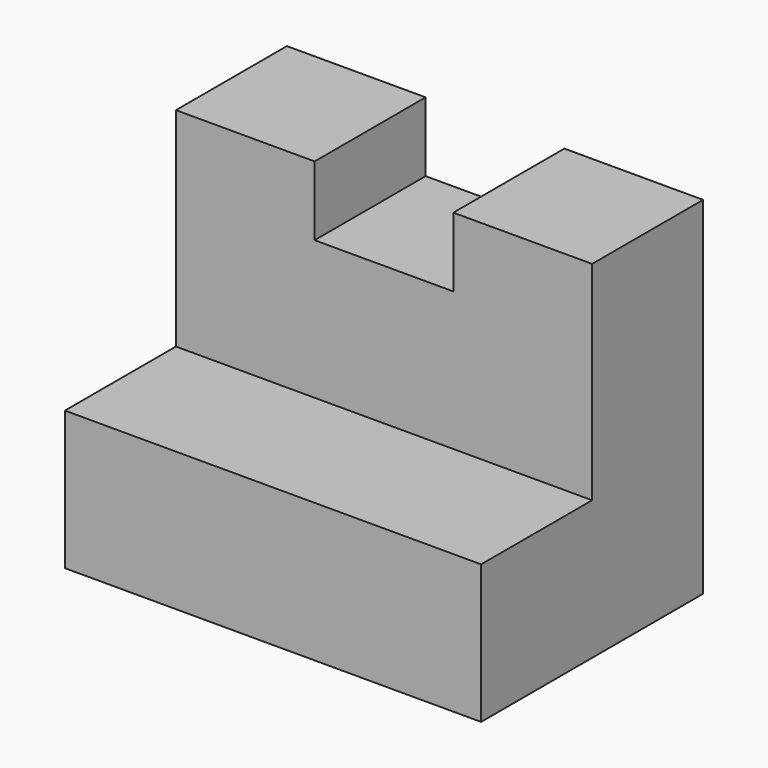
from build123d import *

# Parameters (mm, degrees)
F0_W     = 38.1
F0_H     = 12.7
F1_DEPTH = 25.4
F2_W     = 38.1
F2_H     = 19.05
F3_DEPTH = 12.7
F4_W     = 12.7
F4_H     = 6.35
F5_DEPTH = 25.4


with BuildPart() as f1:
    # F0 (on Front) → F1 (new body)
    with BuildSketch(Plane.XZ):
        with Locations((-32.313204, 6.35)):
            Rectangle(F0_W, F0_H)
    extrude(amount=F1_DEPTH)

    # F2 (on face) → F3 (join)
    with BuildSketch(Plane(origin=(0, 0, 0), x_dir=(-1, 0, 0), z_dir=(0, 1, 0))):
        with Locations((32.313204, 22.225)):
            Rectangle(F2_W, F2_H)
    extrude(amount=-F3_DEPTH)

    # F4 (on face) → F5 (cut)
    with BuildSketch(Plane(origin=(0, 0, 0), x_dir=(-1, 0, 0), z_dir=(0, 1, 0))):
        with Locations((32.313204, 28.575)):
            Rectangle(F4_W, F4_H)
    extrude(amount=-F5_DEPTH, mode=Mode.SUBTRACT)


solid = f1.part
